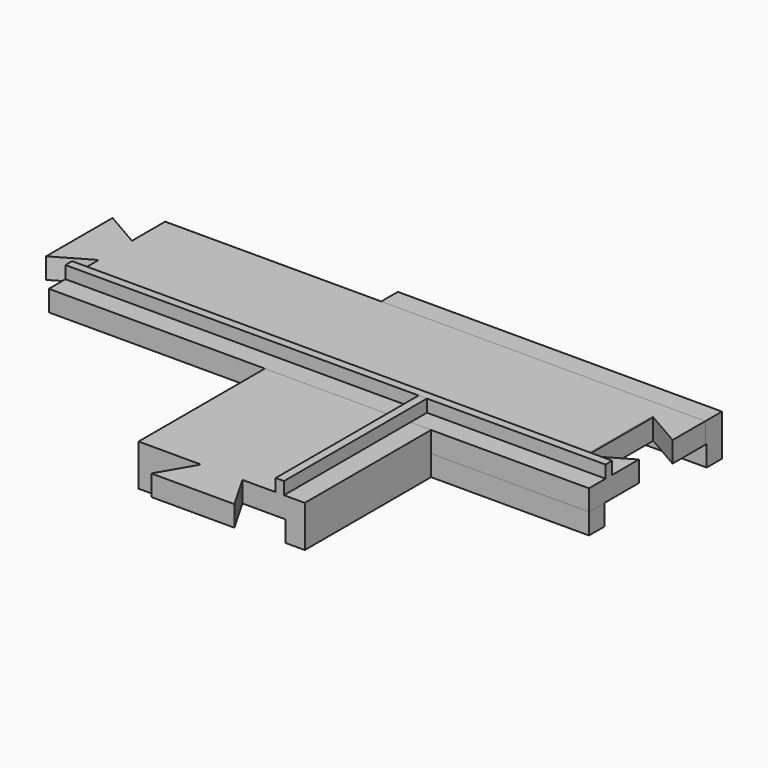
from build123d import *

# Parameters (mm, degrees)
PAD_DEPTH    = 5
PAD001_DEPTH = 3
PAD002_DEPTH = 5
PAD003_DEPTH = 5
SKETCH004_W  = 130
SKETCH004_H  = 2
PAD004_DEPTH = 3


with BuildPart() as body:
    # Sketch → Pad (new body)
    with BuildSketch(Plane.XY):
        Polygon((0, 40), (0, 26), (-8.660254, 31), (-8.660254, 9), (0, 14), (0, 0), (-38, 0), (-38, -38), (-53, -38), (-48, -46.660254), (-68, -46.660254), (-63, -38), (-78, -38), (-78, 40), align=None)
    extrude(amount=PAD_DEPTH)

    # Sketch001 (on Face16 of Pad) → Pad001 (join)
    with BuildSketch(Plane.XY.offset(5)):
        Polygon((0, 7), (-45, 7), (-45, -38), (-43, -38), (-43, 5), (0, 5), align=None)
    extrude(amount=PAD001_DEPTH)

    # Sketch002 (on Face4 of Pad001) → Pad002 (join)
    with BuildSketch(Plane(origin=(0, 0, 0), x_dir=(1, 0, 0), z_dir=(0, 0, -1))):
        Polygon((0, 0), (-38, 0), (-38, 38), (-42.6, 38), (-42.6, -4.6), (0, -4.6), align=None)
        Polygon((0, -40), (0, -35.4), (-73.4, -35.4), (-73.4, 38), (-78, 38), (-78, -40), align=None)
    extrude(amount=PAD002_DEPTH)


with BuildPart() as body001:
    # Sketch003 → Pad003 (new body)
    with BuildSketch(Plane.XY):
        Polygon((0, 0), (-130, 0), (-130, 15), (-138.660254, 10), (-138.660254, 30), (-130, 25), (-130, 35), (0, 35), (0, 25.15), (-9.049965, 30.375), (-9.049965, 9.775), (0, 15), align=None)
    extrude(amount=PAD003_DEPTH)

    # Sketch004 (on Face14 of Pad003) → Pad004 (join)
    with BuildSketch(Plane.XY.offset(5)):
        with Locations((-65, 6)):
            Rectangle(SKETCH004_W, SKETCH004_H)
    extrude(amount=PAD004_DEPTH)


solid = Compound([body.part, body001.part])
